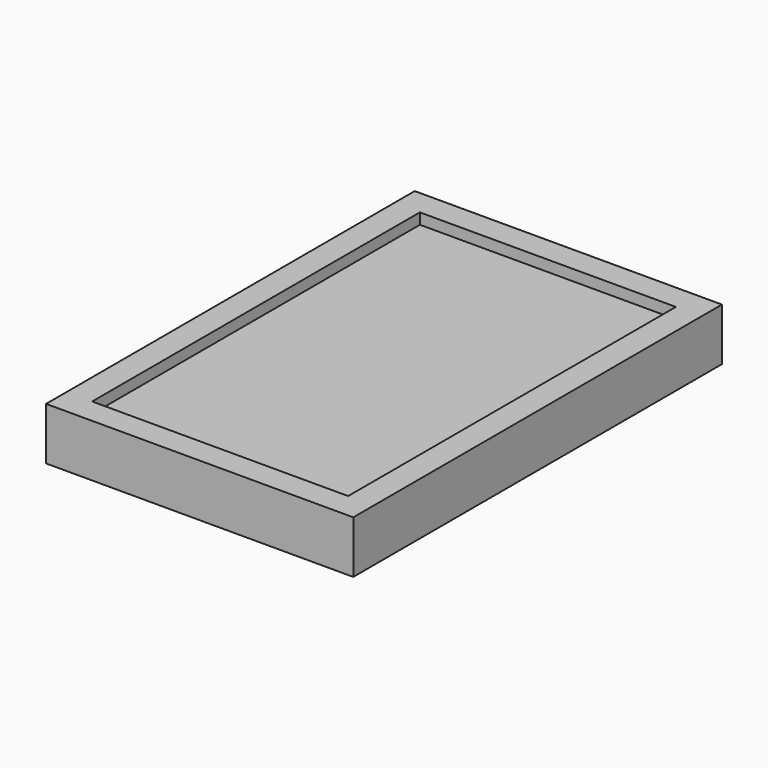
from build123d import *

# Parameters (mm, degrees)
F0_W     = 1200
F0_H     = 1800
F0_W_2   = 1000
F0_H_2   = 1600
F1_DEPTH = 205
F2_W     = 998
F2_H     = 1598
F3_DEPTH = 163


with BuildPart() as f1:
    # F0 (on Top) → F1 (new body)
    with BuildSketch(Plane.XY):
        with Locations((-600, 900)):
            Rectangle(F0_W, F0_H)
        with Locations((-600, 900)):
            Rectangle(F0_W_2, F0_H_2, mode=Mode.SUBTRACT)
    extrude(amount=F1_DEPTH)


with BuildPart() as f3:
    # F2 (on Top) → F3 (new body)
    with BuildSketch(Plane.XY):
        with Locations((-600, 900)):
            Rectangle(F2_W, F2_H)
    extrude(amount=F3_DEPTH)


solid = Compound([f1.part, f3.part])
